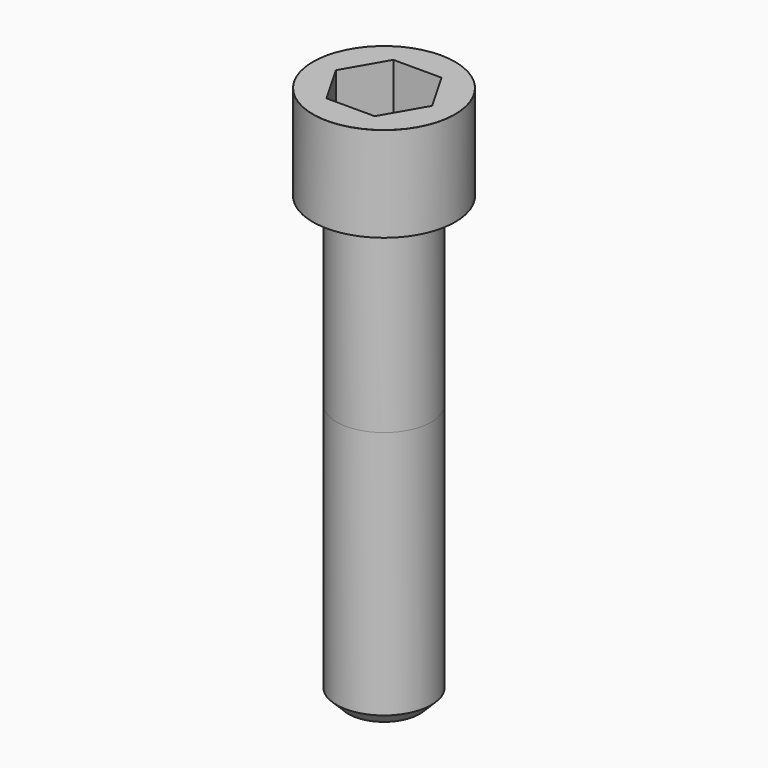
from build123d import *

# Parameters (mm, degrees)
POCKET_DEPTH = 14.08


with BuildPart() as part:
    # Sketch → Revolve (revolve)
    with BuildSketch(Plane.YZ):
        with BuildLine():
            Line((7.999, 0), (12, 0))
            Line((12, 0), (12, 15.97229))
            ThreePointArc((12, 15.97229), (11.991884, 15.991884), (11.97229, 16))
            Line((11.97229, 16), (0, 16))
            Line((0, -75), (0, 16))
            Line((6, -75), (0, -75))
            Line((8, -73), (6, -75))
            Line((8, -31), (8, -73))
            Line((7.999, 0), (8, -31))
        make_face()
    revolve(axis=Axis((0, 0, 0), (0, 0, 1)))

    # Sketch001 → Pocket (cut)
    with BuildSketch(Plane.XY.offset(16)):
        Polygon((8.129092, 0), (4.064546, 7.04), (-4.064546, 7.04), (-8.129092, 0), (-4.064546, -7.04), (4.064546, -7.04), align=None)
    extrude(amount=-POCKET_DEPTH, mode=Mode.SUBTRACT)


solid = part.part
